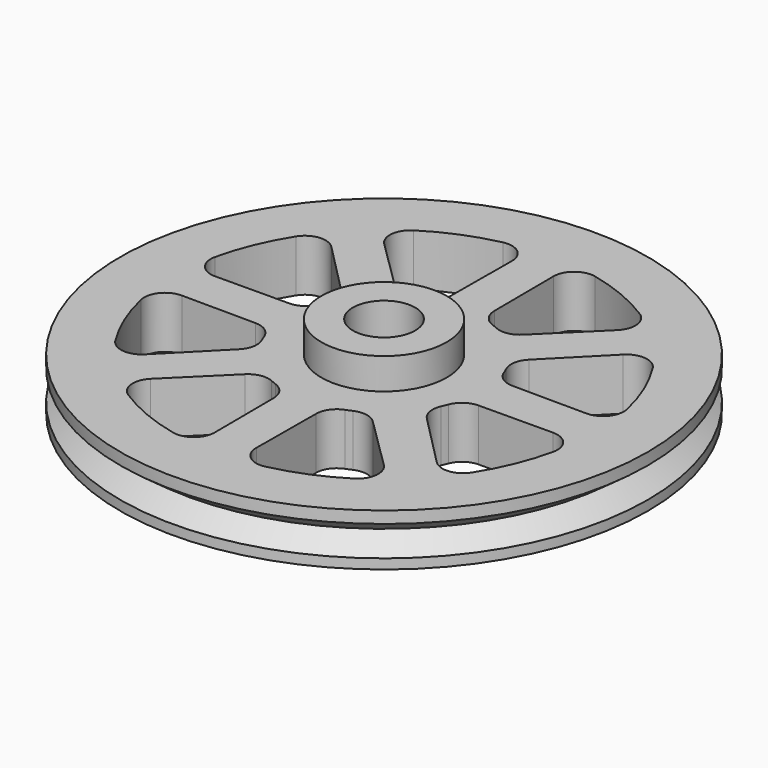
from build123d import *

# Parameters (mm, degrees)
F0_R     = 25.4
F0_R_2   = 3.125
F1_DEPTH = 5
F2_R     = 6.031593
F3_DEPTH = 8
F4_R     = 3
F5_DEPTH = 8.001


with BuildPart() as f1:
    # F0 (on Top) → F1 (new body)
    with BuildSketch(Plane.XY):
        Circle(F0_R)
        with BuildLine():
            ThreePointArc((-10.88453, -17.158945), (-11.801786, -15.683608), (-11.218679, -14.04716))
            Line((-11.218679, -14.04716), (-6.139343, -9.030124))
            ThreePointArc((-6.139343, -9.030124), (-5.086026, -8.484282), (-3.908805, -8.631157))
            ThreePointArc((-3.908805, -8.631157), (-3.625926, -8.753759), (-3.339207, -8.867092))
            ThreePointArc((-3.339207, -8.867092), (-2.40293, -9.595657), (-2.044091, -10.726433))
            Line((-2.044091, -10.726433), (-2.000038, -17.865646))
            ThreePointArc((-2.000038, -17.865646), (-2.744862, -19.435109), (-4.436681, -19.829732))
            ThreePointArc((-4.436681, -19.829732), (-7.776127, -18.773232), (-10.88453, -17.158945))
        make_face(mode=Mode.SUBTRACT)
        with BuildLine():
            ThreePointArc((-19.829732, -4.436681), (-19.435109, -2.744862), (-17.865646, -2.000038))
            Line((-17.865646, -2.000038), (-10.726433, -2.044091))
            ThreePointArc((-10.726433, -2.044091), (-9.595657, -2.40293), (-8.867092, -3.339207))
            ThreePointArc((-8.867092, -3.339207), (-8.753759, -3.625926), (-8.631157, -3.908805))
            ThreePointArc((-8.631157, -3.908805), (-8.484282, -5.086026), (-9.030124, -6.139343))
            Line((-9.030124, -6.139343), (-14.04716, -11.218679))
            ThreePointArc((-14.04716, -11.218679), (-15.683608, -11.801786), (-17.158945, -10.88453))
            ThreePointArc((-17.158945, -10.88453), (-18.773232, -7.776127), (-19.829732, -4.436681))
        make_face(mode=Mode.SUBTRACT)
        Circle(F0_R_2, mode=Mode.SUBTRACT)
        with BuildLine():
            ThreePointArc((4.436681, -19.829732), (2.744862, -19.435109), (2.000038, -17.865646))
            Line((2.000038, -17.865646), (2.044091, -10.726433))
            ThreePointArc((2.044091, -10.726433), (2.40293, -9.595657), (3.339207, -8.867092))
            ThreePointArc((3.339207, -8.867092), (3.625926, -8.753759), (3.908805, -8.631157))
            ThreePointArc((3.908805, -8.631157), (5.086026, -8.484282), (6.139343, -9.030124))
            Line((6.139343, -9.030124), (11.218679, -14.04716))
            ThreePointArc((11.218679, -14.04716), (11.801786, -15.683608), (10.88453, -17.158945))
            ThreePointArc((10.88453, -17.158945), (7.776127, -18.773232), (4.436681, -19.829732))
        make_face(mode=Mode.SUBTRACT)
        with BuildLine():
            ThreePointArc((17.158945, -10.88453), (15.683608, -11.801786), (14.04716, -11.218679))
            Line((14.04716, -11.218679), (9.030124, -6.139343))
            ThreePointArc((9.030124, -6.139343), (8.484282, -5.086026), (8.631157, -3.908805))
            ThreePointArc((8.631157, -3.908805), (8.753759, -3.625926), (8.867092, -3.339207))
            ThreePointArc((8.867092, -3.339207), (9.595657, -2.40293), (10.726433, -2.044091))
            Line((10.726433, -2.044091), (17.865646, -2.000038))
            ThreePointArc((17.865646, -2.000038), (19.435109, -2.744862), (19.829732, -4.436681))
            ThreePointArc((19.829732, -4.436681), (18.773232, -7.776127), (17.158945, -10.88453))
        make_face(mode=Mode.SUBTRACT)
        with BuildLine():
            ThreePointArc((-17.158945, 10.88453), (-15.683608, 11.801786), (-14.04716, 11.218679))
            Line((-14.04716, 11.218679), (-9.030124, 6.139343))
            ThreePointArc((-9.030124, 6.139343), (-8.484282, 5.086026), (-8.631157, 3.908805))
            ThreePointArc((-8.631157, 3.908805), (-8.753759, 3.625926), (-8.867092, 3.339207))
            ThreePointArc((-8.867092, 3.339207), (-9.595657, 2.40293), (-10.726433, 2.044091))
            Line((-10.726433, 2.044091), (-17.865646, 2.000038))
            ThreePointArc((-17.865646, 2.000038), (-19.435109, 2.744862), (-19.829732, 4.436681))
            ThreePointArc((-19.829732, 4.436681), (-18.773232, 7.776127), (-17.158945, 10.88453))
        make_face(mode=Mode.SUBTRACT)
        with BuildLine():
            ThreePointArc((-10.88453, 17.158945), (-7.776127, 18.773232), (-4.436681, 19.829732))
            ThreePointArc((-4.436681, 19.829732), (-2.744862, 19.435109), (-2.000038, 17.865646))
            Line((-2.000038, 17.865646), (-2.044091, 10.726433))
            ThreePointArc((-2.044091, 10.726433), (-2.40293, 9.595657), (-3.339207, 8.867092))
            ThreePointArc((-3.339207, 8.867092), (-3.625926, 8.753759), (-3.908805, 8.631157))
            ThreePointArc((-3.908805, 8.631157), (-5.086026, 8.484282), (-6.139343, 9.030124))
            Line((-6.139343, 9.030124), (-11.218679, 14.04716))
            ThreePointArc((-11.218679, 14.04716), (-11.801786, 15.683608), (-10.88453, 17.158945))
        make_face(mode=Mode.SUBTRACT)
        with BuildLine():
            ThreePointArc((19.829732, 4.436681), (19.435109, 2.744862), (17.865646, 2.000038))
            Line((17.865646, 2.000038), (10.726433, 2.044091))
            ThreePointArc((10.726433, 2.044091), (9.595657, 2.40293), (8.867092, 3.339207))
            ThreePointArc((8.867092, 3.339207), (8.753759, 3.625926), (8.631157, 3.908805))
            ThreePointArc((8.631157, 3.908805), (8.484282, 5.086026), (9.030124, 6.139343))
            Line((9.030124, 6.139343), (14.04716, 11.218679))
            ThreePointArc((14.04716, 11.218679), (15.683608, 11.801786), (17.158945, 10.88453))
            ThreePointArc((17.158945, 10.88453), (18.773232, 7.776127), (19.829732, 4.436681))
        make_face(mode=Mode.SUBTRACT)
        with BuildLine():
            Line((2.044091, 10.726433), (2.000038, 17.865646))
            ThreePointArc((2.000038, 17.865646), (2.744862, 19.435109), (4.436681, 19.829732))
            ThreePointArc((4.436681, 19.829732), (7.776127, 18.773232), (10.88453, 17.158945))
            ThreePointArc((10.88453, 17.158945), (11.801786, 15.683608), (11.218679, 14.04716))
            Line((11.218679, 14.04716), (6.139343, 9.030124))
            ThreePointArc((6.139343, 9.030124), (5.086026, 8.484282), (3.908805, 8.631157))
            ThreePointArc((3.908805, 8.631157), (3.625926, 8.753759), (3.339207, 8.867092))
            ThreePointArc((3.339207, 8.867092), (2.40293, 9.595657), (2.044091, 10.726433))
        make_face(mode=Mode.SUBTRACT)
    extrude(amount=F1_DEPTH)

    # F2 (on Top) → F3 (join)
    with BuildSketch(Plane.XY):
        Circle(F2_R)
    extrude(amount=F3_DEPTH)

    # F4 (on face) → F5 (cut, through all)
    with BuildSketch(Plane.XY.offset(8)):
        Circle(F4_R)
    extrude(amount=-F5_DEPTH, mode=Mode.SUBTRACT)

    # F6 (on Right) → F7 (revolve, cut)
    with BuildSketch(Plane.YZ):
        Polygon((25.457971, 0.902619), (25.4, 2.402619), (23.4, 2.402619), align=None)
        Polygon((23.4, 2.402619), (25.4, 2.402619), (25.457971, 3.902619), align=None)
    revolve(axis=Axis((0, 0, 8.098846), (0, 0, -1)), mode=Mode.SUBTRACT)


solid = f1.part
